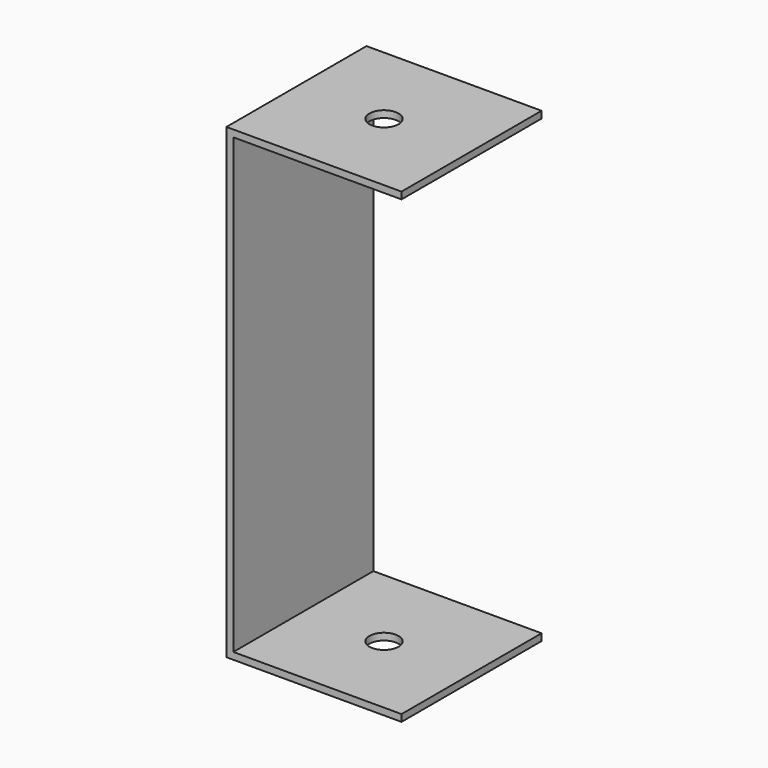
from build123d import *

# Parameters (mm, degrees)
F1_DEPTH = 38.1
F2_R     = 6.35
F3_DEPTH = 286.8709862232


with BuildPart() as f1:
    # F0 (on Front) → F1 (new body, symmetric)
    with BuildSketch(Plane.XZ):
        Polygon((0, 101.6), (0, 0), (0, -101.6), (76.2, -101.6), (76.2, -98.6), (3, -98.6), (3, 0), (3, 98.6), (76.2, 98.6), (76.2, 101.6), align=None)
    extrude(amount=F1_DEPTH, both=True)

    # F2 (on face) → F3 (cut)
    with BuildSketch(Plane.XY.offset(101.6)):
        with Locations((38.1, 0)):
            Circle(F2_R)
    extrude(amount=-F3_DEPTH, mode=Mode.SUBTRACT)


solid = f1.part
